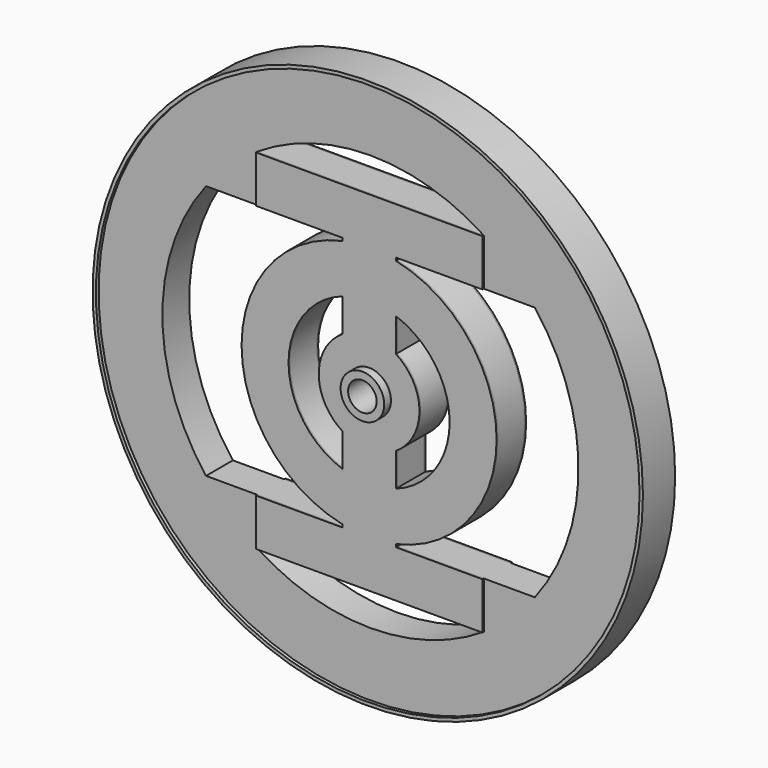
from build123d import *

# Parameters (mm, degrees)
F0_R     = 40.5
F0_R_2   = 3
F1_DEPTH = 2.5
F2_R     = 41
F2_R_2   = 40.5
F3_DEPTH = 3
F4_R     = 3.25
F4_R_2   = 2.125
F5_DEPTH = 4
F6_R     = 3
F7_DEPTH = 0.25


with BuildPart() as f1:
    # F0 (on Front) → F1 (new body, symmetric)
    with BuildSketch(Plane.XZ):
        Circle(F0_R)
        with BuildLine():
            ThreePointArc((16.881943, -26), (0, -31), (-16.881943, -26))
            Line((-16.881943, -26), (16.881943, -26))
        make_face(mode=Mode.SUBTRACT)
        with BuildLine():
            Line((-4, 19), (-4, 18.574176))
            ThreePointArc((-4, 18.574176), (-19, 0), (-4, -18.574176))
            Line((-4, -18.574176), (-4, -19))
            Line((-4, -19), (-24.494897, -19))
            ThreePointArc((-24.494897, -19), (-31, 0), (-24.494897, 19))
            Line((-24.494897, 19), (-4, 19))
        make_face(mode=Mode.SUBTRACT)
        with BuildLine():
            ThreePointArc((-4, -11.313708), (-12, 0), (-4, 11.313708))
            Line((-4, 11.313708), (-4, 6.344289))
            ThreePointArc((-4, 6.344289), (-7.5, 0), (-4, -6.344289))
            Line((-4, -6.344289), (-4, -11.313708))
        make_face(mode=Mode.SUBTRACT)
        with BuildLine():
            ThreePointArc((-16.881943, 26), (0, 31), (16.881943, 26))
            Line((16.881943, 26), (-16.881943, 26))
        make_face(mode=Mode.SUBTRACT)
        Circle(F0_R_2, mode=Mode.SUBTRACT)
        with BuildLine():
            Line((4, -11.313708), (4, -6.344289))
            ThreePointArc((4, -6.344289), (7.5, 0), (4, 6.344289))
            Line((4, 6.344289), (4, 11.313708))
            ThreePointArc((4, 11.313708), (12, 0), (4, -11.313708))
        make_face(mode=Mode.SUBTRACT)
        with BuildLine():
            ThreePointArc((24.494897, 19), (31, 0), (24.494897, -19))
            Line((24.494897, -19), (4, -19))
            Line((4, -19), (4, -18.574176))
            ThreePointArc((4, -18.574176), (19, 0), (4, 18.574176))
            Line((4, 18.574176), (4, 19))
            Line((4, 19), (24.494897, 19))
        make_face(mode=Mode.SUBTRACT)
    extrude(amount=F1_DEPTH, both=True)


with BuildPart() as f3:
    # F2 (on Front) → F3 (new body, symmetric)
    with BuildSketch(Plane.XZ):
        Circle(F2_R)
        Circle(F2_R_2, mode=Mode.SUBTRACT)
    extrude(amount=F3_DEPTH, both=True)


with BuildPart() as f5:
    # F4 (on Front) → F5 (new body, symmetric)
    with BuildSketch(Plane.XZ):
        Circle(F4_R)
        Circle(F4_R_2, mode=Mode.SUBTRACT)
    extrude(amount=F5_DEPTH, both=True)


with BuildPart() as f7:
    # F6 (on face) → F7 (new body)
    with BuildSketch(Plane.XZ.offset(2.5)):
        with BuildLine():
            Line((16.881943, 26), (-16.881943, 26))
            Line((-16.881943, 26), (-16.881943, 19))
            Line((-16.881943, 19), (-4, 19))
            Line((-4, 19), (-4, 18.574176))
            ThreePointArc((-4, 18.574176), (-19, 0), (-4, -18.574176))
            Line((-4, -18.574176), (-4, -19))
            Line((-4, -19), (-16.881943, -19))
            Line((-16.881943, -19), (-16.881943, -26))
            Line((-16.881943, -26), (16.881943, -26))
            Line((16.881943, -26), (16.881943, -19))
            Line((16.881943, -19), (4, -19))
            Line((4, -19), (4, -18.574176))
            ThreePointArc((4, -18.574176), (19, 0), (4, 18.574176))
            Line((4, 18.574176), (4, 19))
            Line((4, 19), (16.881943, 19))
            Line((16.881943, 19), (16.881943, 26))
        make_face()
        with BuildLine():
            ThreePointArc((-4, -11.313708), (-12, 0), (-4, 11.313708))
            Line((-4, 11.313708), (-4, 6.344289))
            ThreePointArc((-4, 6.344289), (-7.5, 0), (-4, -6.344289))
            Line((-4, -6.344289), (-4, -11.313708))
        make_face(mode=Mode.SUBTRACT)
        Circle(F6_R, mode=Mode.SUBTRACT)
        with BuildLine():
            ThreePointArc((4, 11.313708), (12, 0), (4, -11.313708))
            Line((4, -11.313708), (4, -6.344289))
            ThreePointArc((4, -6.344289), (7.5, 0), (4, 6.344289))
            Line((4, 6.344289), (4, 11.313708))
        make_face(mode=Mode.SUBTRACT)
    extrude(amount=F7_DEPTH)


with BuildPart() as f8_1:
    # F8: instance of F7
    add(f7.part.mirror(Plane.XZ))


solid = Compound([f1.part, f3.part, f5.part, f7.part, f8_1.part])
